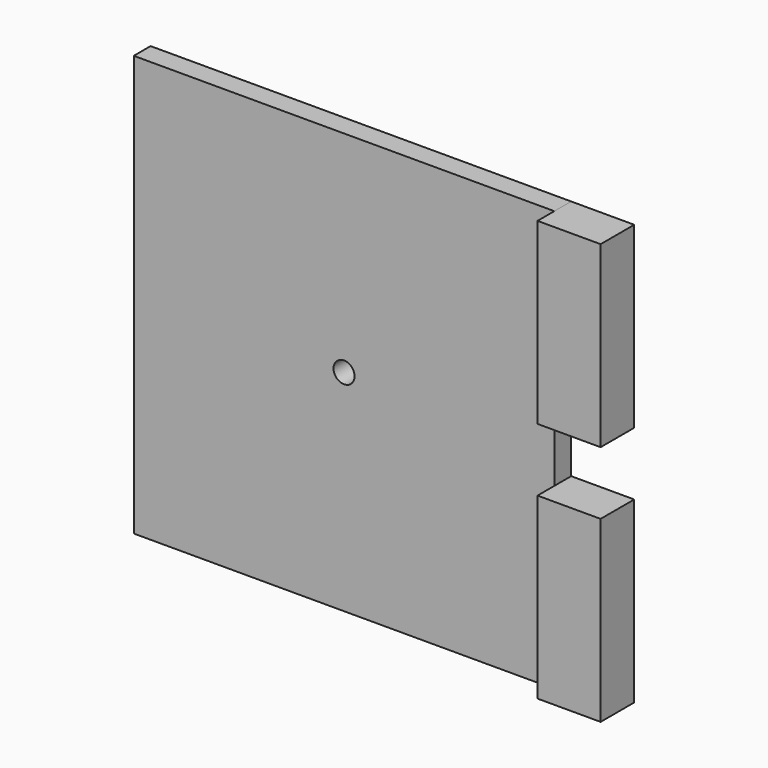
from build123d import *

# Parameters (mm, degrees)
F1_W     = 19.05
F1_H     = 53.975
F2_DEPTH = 12.7
F0_W     = 127
F0_H     = 127
F0_R     = 3.175
F3_DEPTH = 6.35


with BuildPart() as f2:
    # F1 (on Front) → F2 (new body)
    with BuildSketch(Plane.XZ):
        with Locations((73.025, -36.5125)):
            Rectangle(F1_W, F1_H)
        with Locations((73.025, 36.5125)):
            Rectangle(F1_W, F1_H)
    extrude(amount=F2_DEPTH)


with BuildPart() as f3:
    # F0 (on Front) → F3 (new body)
    with BuildSketch(Plane.XZ):
        Rectangle(F0_W, F0_H)
        Circle(F0_R, mode=Mode.SUBTRACT)
    extrude(amount=F3_DEPTH)


solid = Compound([f2.part, f3.part])
